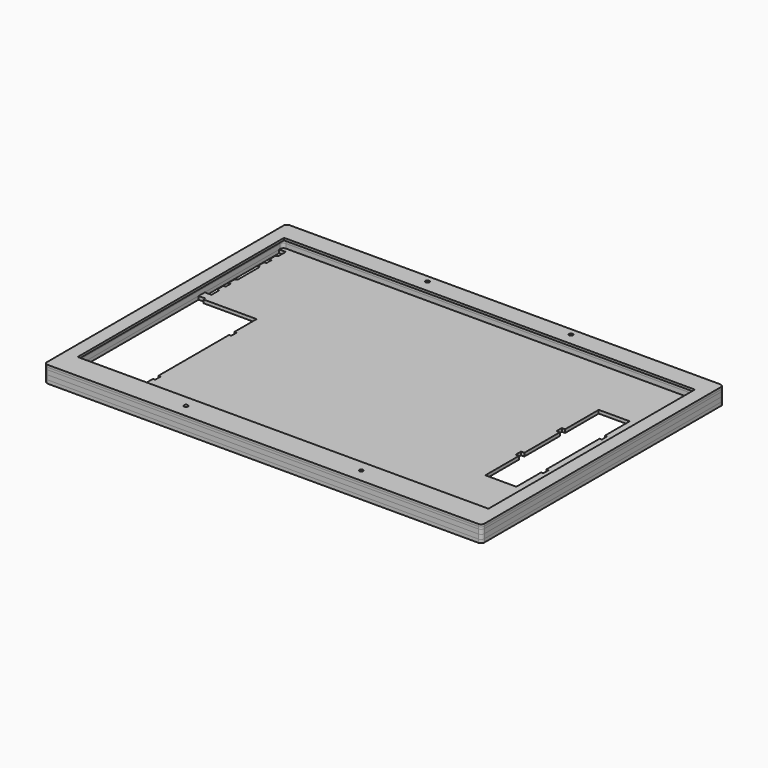
from build123d import *

# Parameters (mm, degrees)
F1_R      = 1.75
F1_W      = 371
F1_H      = 233
F2_DEPTH  = 2
F4_DEPTH  = 2
F5_R      = 1.75
F6_DEPTH  = 4
F9_R      = 1.75
F10_DEPTH = 3


with BuildPart() as f2:
    # F1 (on face) → F2 (new body)
    with BuildSketch(Plane.XY):
        with BuildLine():
            Line((386, 256.5), (-3, 256.5))
            ThreePointArc((-3, 256.5), (-5.12132, 255.62132), (-6, 253.5))
            Line((-6, 253.5), (-6, -13.6))
            ThreePointArc((-6, -13.6), (-5.12132, -15.72132), (-3, -16.6))
            Line((-3, -16.6), (386, -16.6))
            ThreePointArc((386, -16.6), (388.12132, -15.72132), (389, -13.6))
            Line((389, -13.6), (389, 253.5))
            ThreePointArc((389, 253.5), (388.12132, 255.62132), (386, 256.5))
        make_face()
        with Locations((112.25, -4.5)):
            Circle(F1_R, mode=Mode.SUBTRACT)
        with Locations((270.5, -4.5)):
            Circle(F1_R, mode=Mode.SUBTRACT)
        with Locations((126.65, 250)):
            Circle(F1_R, mode=Mode.SUBTRACT)
        with Locations((191.5, 122.5)):
            Rectangle(F1_W, F1_H, mode=Mode.SUBTRACT)
        with Locations((256.35, 250)):
            Circle(F1_R, mode=Mode.SUBTRACT)
    extrude(amount=F2_DEPTH)


with BuildPart() as f4:
    # F3 (on face) → F4 (new body)
    with BuildSketch(Plane.XY):
        with BuildLine():
            Line((386, 256.5), (-3, 256.5))
            ThreePointArc((-3, 256.5), (-5.12132, 255.62132), (-6, 253.5))
            Line((-6, 253.5), (-6, -13.6))
            ThreePointArc((-6, -13.6), (-5.12132, -15.72132), (-3, -16.6))
            Line((-3, -16.6), (386, -16.6))
            ThreePointArc((386, -16.6), (388.12132, -15.72132), (389, -13.6))
            Line((389, -13.6), (389, 253.5))
            ThreePointArc((389, 253.5), (388.12132, 255.62132), (386, 256.5))
        make_face()
        with BuildLine():
            Line((0, 3), (0, 242))
            ThreePointArc((0, 242), (0.87868, 244.12132), (3, 245))
            Line((3, 245), (118.5, 245))
            Line((118.5, 245), (118.5, 254.5))
            Line((118.5, 254.5), (264.5, 254.5))
            Line((264.5, 254.5), (264.5, 245))
            Line((264.5, 245), (380, 245))
            ThreePointArc((380, 245), (382.12132, 244.12132), (383, 242))
            Line((383, 242), (383, 3))
            ThreePointArc((383, 3), (382.12132, 0.87868), (380, 0))
            Line((380, 0), (356.5, 0))
            Line((356.5, 0), (356.5, -6))
            Line((356.5, -6), (348.5, -6))
            Line((348.5, -6), (348.5, 0))
            Line((348.5, 0), (277.5, 0))
            Line((277.5, 0), (277.5, -14.6))
            Line((277.5, -14.6), (105.5, -14.6))
            Line((105.5, -14.6), (105.5, 0))
            Line((105.5, 0), (3, 0))
            ThreePointArc((3, 0), (0.87868, 0.87868), (0, 3))
        make_face(mode=Mode.SUBTRACT)
    extrude(amount=-F4_DEPTH)


with BuildPart() as f6:
    # F5 (on face) → F6 (new body)
    with BuildSketch(Plane.XY):
        with BuildLine():
            Line((386, 256.5), (-3, 256.5))
            ThreePointArc((-3, 256.5), (-5.12132, 255.62132), (-6, 253.5))
            Line((-6, 253.5), (-6, -13.6))
            ThreePointArc((-6, -13.6), (-5.12132, -15.72132), (-3, -16.6))
            Line((-3, -16.6), (386, -16.6))
            ThreePointArc((386, -16.6), (388.12132, -15.72132), (389, -13.6))
            Line((389, -13.6), (389, 253.5))
            ThreePointArc((389, 253.5), (388.12132, 255.62132), (386, 256.5))
        make_face()
        with Locations((112.25, -4.5)):
            Circle(F5_R, mode=Mode.SUBTRACT)
        with Locations((270.5, -4.5)):
            Circle(F5_R, mode=Mode.SUBTRACT)
        with BuildLine():
            Line((118.5, 245), (264.5, 245))
            Line((264.5, 245), (380, 245))
            ThreePointArc((380, 245), (382.12132, 244.12132), (383, 242))
            Line((383, 242), (383, 3))
            ThreePointArc((383, 3), (382.12132, 0.87868), (380, 0))
            Line((380, 0), (356.5, 0))
            Line((356.5, 0), (356.5, -6))
            Line((356.5, -6), (348.5, -6))
            Line((348.5, -6), (348.5, 0))
            Line((348.5, 0), (277.5, 0))
            Line((277.5, 0), (105.5, 0))
            Line((105.5, 0), (3, 0))
            ThreePointArc((3, 0), (0.87868, 0.87868), (0, 3))
            Line((0, 3), (0, 242))
            ThreePointArc((0, 242), (0.87868, 244.12132), (3, 245))
            Line((3, 245), (118.5, 245))
        make_face(mode=Mode.SUBTRACT)
        with Locations((126.65, 250)):
            Circle(F5_R, mode=Mode.SUBTRACT)
        with Locations((256.35, 250)):
            Circle(F5_R, mode=Mode.SUBTRACT)
    extrude(amount=-F6_DEPTH)


with BuildPart() as f6_1:
    # F7: moved
    add(f6.part.moved(Location((0, 0, -2))))


with BuildPart() as f8_1:
    # F8: copy of F6
    add(f6_1.part.moved(Location((0, 0, -4))))


with BuildPart() as f10:
    # F9 (on face) → F10 (new body)
    with BuildSketch(Plane(origin=(0, 0, -10), x_dir=(1, 0, 0), z_dir=(0, 0, -1))):
        with BuildLine():
            Line((-6, 13.6), (-6, -253.5))
            ThreePointArc((-6, -253.5), (-5.12132, -255.62132), (-3, -256.5))
            Line((-3, -256.5), (386, -256.5))
            ThreePointArc((386, -256.5), (388.12132, -255.62132), (389, -253.5))
            Line((389, -253.5), (389, 13.6))
            ThreePointArc((389, 13.6), (388.12132, 15.72132), (386, 16.6))
            Line((386, 16.6), (-3, 16.6))
            ThreePointArc((-3, 16.6), (-5.12132, 15.72132), (-6, 13.6))
        make_face()
        with BuildLine():
            Line((6, -241), (0, -241))
            Line((0, -241), (0, -157))
            Line((0, -157), (6, -157))
            Line((6, -157), (6, -165))
            ThreePointArc((6, -165), (5.707107, -165.707107), (5, -166))
            ThreePointArc((5, -166), (4.292893, -166.292893), (4, -167))
            Line((4, -167), (4, -173))
            Line((4, -173), (6, -173))
            Line((6, -173), (6, -179))
            Line((6, -179), (4, -179))
            Line((4, -179), (4, -185))
            ThreePointArc((4, -185), (4.292893, -185.707107), (5, -186))
            ThreePointArc((5, -186), (5.707107, -186.292893), (6, -187))
            Line((6, -187), (6, -211))
            ThreePointArc((6, -211), (5.707107, -211.707107), (5, -212))
            ThreePointArc((5, -212), (4.292893, -212.292893), (4, -213))
            Line((4, -213), (4, -219))
            Line((4, -219), (6, -219))
            Line((6, -219), (6, -225))
            Line((6, -225), (4, -225))
            Line((4, -225), (4, -231))
            ThreePointArc((4, -231), (4.292893, -231.707107), (5, -232))
            ThreePointArc((5, -232), (5.707107, -232.292893), (6, -233))
            Line((6, -233), (6, -241))
        make_face(mode=Mode.SUBTRACT)
        with Locations((126.65, -250)):
            Circle(F9_R, mode=Mode.SUBTRACT)
        with Locations((256.35, -250)):
            Circle(F9_R, mode=Mode.SUBTRACT)
        Polygon((359, -162.5), (357, -162.5), (357, -190.5), (329, -190.5), (329, -152.5), (326, -152.5), (326, -146.5), (329, -146.5), (329, -106.5), (326, -106.5), (326, -100.5), (329, -100.5), (329, -62.5), (357, -62.5), (357, -90.5), (359, -90.5), (359, -96.5), (357, -96.5), (357, -156.5), (359, -156.5), align=None, mode=Mode.SUBTRACT)
        Polygon((0, -150), (0, -148), (0, -6), (0, -4), (6, -4), (6, -6), (54, -6), (54, -31), (56, -31), (56, -37), (54, -37), (54, -117), (56, -117), (56, -123), (54, -123), (54, -148), (6, -148), (6, -150), align=None, mode=Mode.SUBTRACT)
        with Locations((112.25, 4.5)):
            Circle(F9_R, mode=Mode.SUBTRACT)
        with Locations((270.5, 4.5)):
            Circle(F9_R, mode=Mode.SUBTRACT)
    extrude(amount=F10_DEPTH)


solid = Compound([f2.part, f4.part, f6_1.part, f8_1.part, f10.part])
